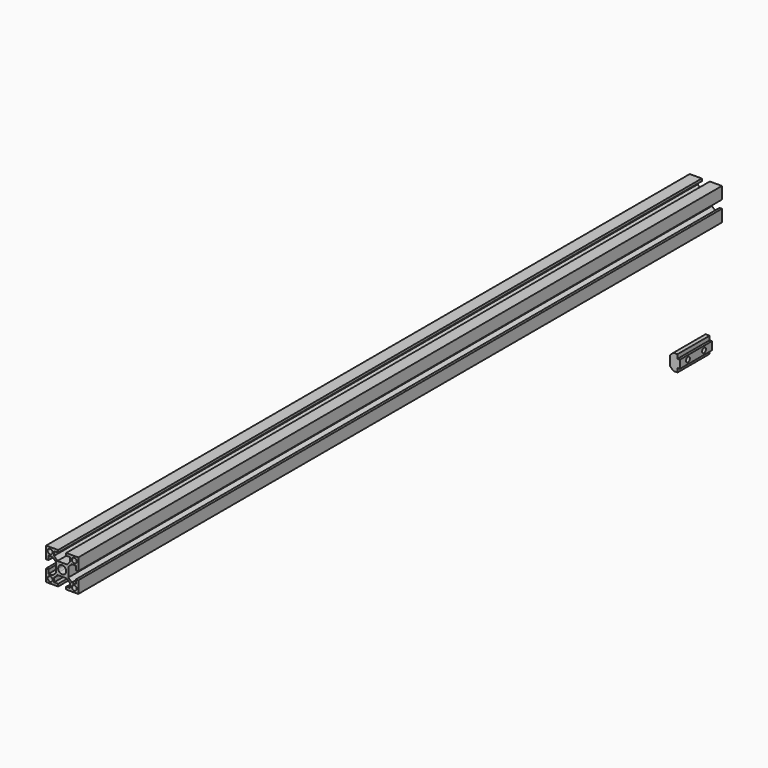
from build123d import *

# Parameters (mm, degrees)
F0_W     = 20
F0_H     = 20
F1_DEPTH = 500
F3_DEPTH = 500
F5_DEPTH = 25
F7_DEPTH = 25


with BuildPart() as f1:
    # F0 (on Front) → F1 (new body)
    with BuildSketch(Plane.XZ):
        with Locations((-53.6716634035, 28.8750978559)):
            Rectangle(F0_W, F0_H)
        with Locations((-53.6716634035, 28.8750978559)):
            Rectangle(F0_W, F0_H)
    extrude(amount=F1_DEPTH)

    # F2 (on face) → F3 (cut)
    with BuildSketch(Plane(origin=(0, 0, 0), x_dir=(-1, 0, 0), z_dir=(0, 1, 0))):
        Polygon((49.8334686458, 25.8750978559), (49.8334686458, 28.8750978559), (49.8334686458, 31.8750978559), (47.6716634035, 33.8750978559), (45.1716634035, 33.8750978559), (45.1716634035, 31.3750978559), (43.6716634035, 31.3750978559), (43.6716634035, 26.3750978559), (45.1716634035, 26.3750978559), (45.1716634035, 23.8750978559), (47.6716634035, 23.8750978559), align=None)
        Polygon((56.1716634035, 20.3750978559), (58.6716634035, 20.3750978559), (58.6716634035, 22.8750978559), (56.6716634035, 25.0369030982), (53.6716634035, 25.0369030982), (50.6716634035, 25.0369030982), (48.6716634035, 22.8750978559), (48.6716634035, 20.3750978559), (51.1716634035, 20.3750978559), (51.1716634035, 18.8750978559), (56.1716634035, 18.8750978559), align=None)
        Polygon((57.5098581612, 31.8750978559), (57.5098581612, 28.8750978559), (57.5098581612, 25.8750978559), (59.6716634035, 23.8750978559), (62.1716634035, 23.8750978559), (62.1716634035, 26.3750978559), (63.6716634035, 26.3750978559), (63.6716634035, 28.8750978559), (63.6716634035, 31.3750978559), (62.1716634035, 31.3750978559), (62.1716634035, 33.8750978559), (59.6716634035, 33.8750978559), align=None)
        Polygon((50.6716634035, 32.7132926136), (53.6716634035, 32.7132926136), (56.6716634035, 32.7132926136), (58.6716634035, 34.8750978559), (58.6716634035, 37.3750978559), (56.1716634035, 37.3750978559), (56.1716634035, 38.8750978559), (51.1716634035, 38.8750978559), (51.1716634035, 37.3750978559), (48.6716634035, 37.3750978559), (48.6716634035, 34.8750978559), align=None)
        with BuildLine():
            ThreePointArc((62.2323235753, 37.4357580277), (60.1110032317, 37.4357580277), (60.1110032317, 35.3144376841))
            Line((60.1110032317, 35.3144376841), (62.2323235753, 37.4357580277))
        make_face()
        with BuildLine():
            Line((62.2323235753, 37.4357580277), (60.1110032317, 35.3144376841))
            ThreePointArc((60.1110032317, 35.3144376841), (61.7456885521, 34.9892785572), (62.6716634035, 36.3750978559))
            ThreePointArc((62.6716634035, 36.3750978559), (62.5574827023, 36.9491230045), (62.2323235753, 37.4357580277))
        make_face()
        with BuildLine():
            Line((51.1716634035, 28.8750978559), (53.6716634035, 28.8750978559))
            Line((53.6716634035, 28.8750978559), (51.9038964505, 30.6428648089))
            ThreePointArc((51.9038964505, 30.6428648089), (51.3619645722, 29.8318064368), (51.1716634035, 28.8750978559))
        make_face()
        with BuildLine():
            Line((51.9038964505, 27.107330903), (53.6716634035, 28.8750978559))
            Line((53.6716634035, 28.8750978559), (51.1716634035, 28.8750978559))
            ThreePointArc((51.1716634035, 28.8750978559), (51.3619645722, 27.918389275), (51.9038964505, 27.107330903))
        make_face()
        with BuildLine():
            Line((55.4394303565, 27.107330903), (53.6716634035, 28.8750978559))
            Line((53.6716634035, 28.8750978559), (51.9038964505, 27.107330903))
            ThreePointArc((51.9038964505, 27.107330903), (53.6716634035, 26.3750978559), (55.4394303565, 27.107330903))
        make_face()
        with BuildLine():
            Line((56.1716634035, 28.8750978559), (53.6716634035, 28.8750978559))
            Line((53.6716634035, 28.8750978559), (55.4394303565, 27.107330903))
            ThreePointArc((55.4394303565, 27.107330903), (55.9813622348, 27.918389275), (56.1716634035, 28.8750978559))
        make_face()
        with BuildLine():
            Line((55.4394303565, 30.6428648089), (53.6716634035, 28.8750978559))
            Line((53.6716634035, 28.8750978559), (56.1716634035, 28.8750978559))
            ThreePointArc((56.1716634035, 28.8750978559), (55.9813622348, 29.8318064368), (55.4394303565, 30.6428648089))
        make_face()
        with BuildLine():
            ThreePointArc((55.4394303565, 30.6428648089), (54.6283719844, 31.1847966872), (53.6716634035, 31.3750978559))
            Line((53.6716634035, 31.3750978559), (53.6716634035, 28.8750978559))
            Line((53.6716634035, 28.8750978559), (55.4394303565, 30.6428648089))
        make_face()
        with BuildLine():
            Line((53.6716634035, 28.8750978559), (53.6716634035, 31.3750978559))
            ThreePointArc((53.6716634035, 31.3750978559), (52.7149548226, 31.1847966872), (51.9038964505, 30.6428648089))
            Line((51.9038964505, 30.6428648089), (53.6716634035, 28.8750978559))
        make_face()
        with BuildLine():
            Line((45.1110032317, 20.3144376841), (47.2323235753, 22.4357580277))
            ThreePointArc((47.2323235753, 22.4357580277), (45.1110032317, 22.4357580277), (45.1110032317, 20.3144376841))
        make_face()
        with BuildLine():
            ThreePointArc((47.6716634035, 21.3750978559), (47.5574827023, 21.9491230045), (47.2323235753, 22.4357580277))
            Line((47.2323235753, 22.4357580277), (45.1110032317, 20.3144376841))
            ThreePointArc((45.1110032317, 20.3144376841), (46.7456885521, 19.9892785572), (47.6716634035, 21.3750978559))
        make_face()
        with BuildLine():
            Line((61.1716634035, 21.3750978559), (60.1110032317, 22.4357580277))
            ThreePointArc((60.1110032317, 22.4357580277), (59.6716634035, 21.3750978559), (60.1110032317, 20.3144376841))
            Line((60.1110032317, 20.3144376841), (61.1716634035, 21.3750978559))
        make_face()
        with BuildLine():
            Line((62.2323235753, 20.3144376841), (61.1716634035, 21.3750978559))
            Line((61.1716634035, 21.3750978559), (60.1110032317, 20.3144376841))
            ThreePointArc((60.1110032317, 20.3144376841), (61.1716634035, 19.8750978559), (62.2323235753, 20.3144376841))
        make_face()
        with BuildLine():
            Line((62.2323235753, 22.4357580277), (61.1716634035, 21.3750978559))
            Line((61.1716634035, 21.3750978559), (62.2323235753, 20.3144376841))
            ThreePointArc((62.2323235753, 20.3144376841), (62.5574827023, 20.8010727074), (62.6716634035, 21.3750978559))
            ThreePointArc((62.6716634035, 21.3750978559), (62.5574827023, 21.9491230045), (62.2323235753, 22.4357580277))
        make_face()
        with BuildLine():
            ThreePointArc((62.2323235753, 22.4357580277), (61.1716634035, 22.8750978559), (60.1110032317, 22.4357580277))
            Line((60.1110032317, 22.4357580277), (61.1716634035, 21.3750978559))
            Line((61.1716634035, 21.3750978559), (62.2323235753, 22.4357580277))
        make_face()
        with BuildLine():
            ThreePointArc((45.1110032317, 37.4357580277), (45.1110032317, 35.3144376841), (47.2323235753, 35.3144376841))
            Line((47.2323235753, 35.3144376841), (45.1110032317, 37.4357580277))
        make_face()
        with BuildLine():
            Line((45.1110032317, 37.4357580277), (47.2323235753, 35.3144376841))
            ThreePointArc((47.2323235753, 35.3144376841), (47.5574827023, 35.8010727074), (47.6716634035, 36.3750978559))
            ThreePointArc((47.6716634035, 36.3750978559), (46.7456885521, 37.7609171547), (45.1110032317, 37.4357580277))
        make_face()
    extrude(amount=-F3_DEPTH, mode=Mode.SUBTRACT)


with BuildPart() as f5:
    # F4 (on Front) → F5 (new body)
    with BuildSketch(Plane.XZ):
        Polygon((-51.2904248573, -53.027571466), (-49.7904248573, -53.027571466), (-49.7904248573, -50.527571466), (-49.7904248573, -48.027571466), (-51.2904248573, -48.027571466), (-51.2904248573, -45.527571466), (-53.7904248573, -45.527571466), (-55.9521429241, -47.527571466), (-55.9521429241, -50.527571466), (-55.9521429241, -53.527571466), (-53.7904248573, -55.527571466), (-51.2904248573, -55.527571466), align=None)
    extrude(amount=F5_DEPTH)

    # F6 (on face) → F7 (cut)
    with BuildSketch(Plane.YZ.offset(-49.7904248573)):
        with BuildLine():
            Line((-20.25, -50.527571466), (-18.75, -50.527571466))
            Line((-18.75, -50.527571466), (-17.25, -50.527571466))
            ThreePointArc((-17.25, -50.527571466), (-18.75, -49.027571466), (-20.25, -50.527571466))
        make_face()
        with BuildLine():
            Line((-17.25, -50.527571466), (-18.75, -50.527571466))
            Line((-18.75, -50.527571466), (-20.25, -50.527571466))
            ThreePointArc((-20.25, -50.527571466), (-18.75, -52.027571466), (-17.25, -50.527571466))
        make_face()
        with BuildLine():
            Line((-6.25, -50.527571466), (-7.75, -50.527571466))
            ThreePointArc((-7.75, -50.527571466), (-6.25, -52.027571466), (-4.75, -50.527571466))
            Line((-4.75, -50.527571466), (-6.25, -50.527571466))
        make_face()
        with BuildLine():
            ThreePointArc((-4.75, -50.527571466), (-6.25, -49.027571466), (-7.75, -50.527571466))
            Line((-7.75, -50.527571466), (-6.25, -50.527571466))
            Line((-6.25, -50.527571466), (-4.75, -50.527571466))
        make_face()
    extrude(amount=-F7_DEPTH, mode=Mode.SUBTRACT)


solid = Compound([f1.part, f5.part])
